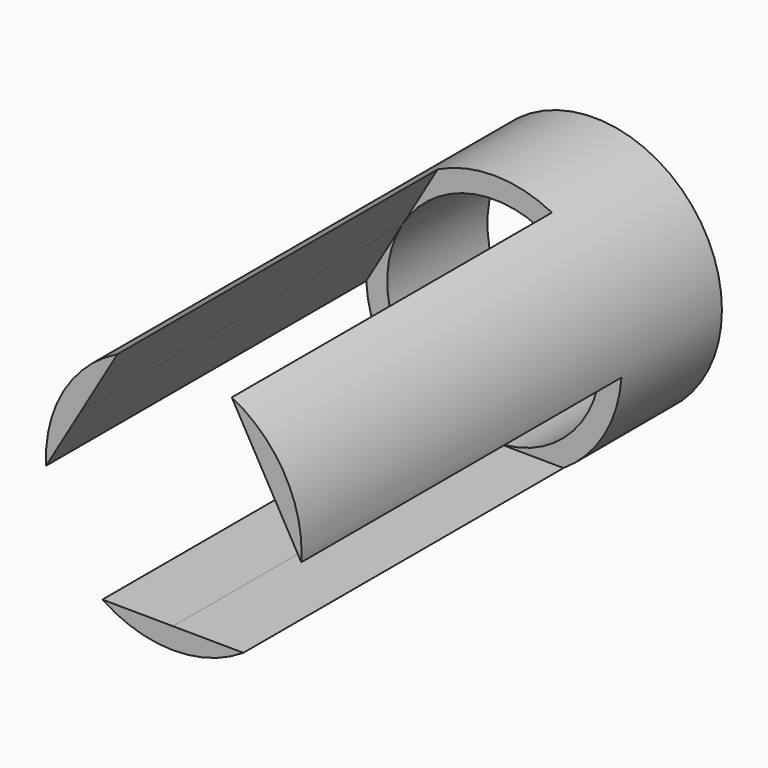
from build123d import *

# Parameters (mm, degrees)
F0_R     = 27.748745
F0_R_2   = 23.154046
F1_DEPTH = 114.046
F3_DEPTH = 86.868


with BuildPart() as f1:
    # F0 (on Front) → F1 (new body)
    with BuildSketch(Plane.XZ):
        Circle(F0_R)
        Circle(F0_R_2, mode=Mode.SUBTRACT)
    extrude(amount=F1_DEPTH)

    # F2 (on face) → F3 (cut)
    with BuildSketch(Plane.XZ.offset(114.046)):
        Polygon((39.921278, -23.467656), (0.362947, 46.306669), (-40.284225, -22.839013), align=None)
    extrude(amount=-F3_DEPTH, mode=Mode.SUBTRACT)


solid = f1.part
